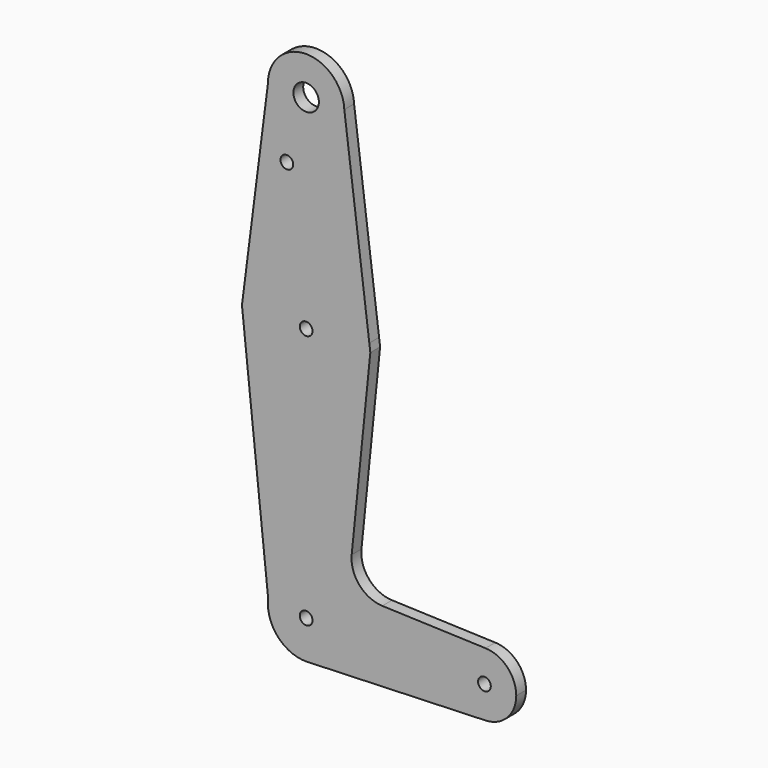
from build123d import *

# Parameters (mm, degrees)
F0_R     = 1.5875
F0_R_2   = 3.175
F1_DEPTH = 3.048


with BuildPart() as f1:
    # F0 (on Front) → F1 (new body)
    with BuildSketch(Plane.XZ):
        with BuildLine():
            ThreePointArc((9.516015, 51.213634), (9.522753, 51.006866), (9.525, 50.8))
            ThreePointArc((9.525, 50.8), (0.006912, 41.275003), (-9.52499, 50.786176))
            Line((-9.52499, 50.786176), (-15.747385, 2.008853))
            ThreePointArc((-15.747385, 2.008853), (0.007231, 15.874998), (15.749209, 1.994506))
            Line((15.749209, 1.994506), (9.516015, 51.213634))
        make_face()
        with Locations((-4.806304, 35.006166)):
            Circle(F0_R, mode=Mode.SUBTRACT)
        with BuildLine():
            ThreePointArc((-9.52499, 50.786176), (0.006912, 41.275003), (9.525, 50.8))
            ThreePointArc((9.525, 50.8), (9.522753, 51.006866), (9.516015, 51.213634))
            ThreePointArc((9.516015, 51.213634), (-0.213776, 60.322601), (-9.52499, 50.786176))
        make_face()
        with Locations((0, 50.8)):
            Circle(F0_R_2, mode=Mode.SUBTRACT)
        with BuildLine():
            ThreePointArc((15.875, 0), (15.843521, 0.999235), (15.749209, 1.994506))
            ThreePointArc((15.749209, 1.994506), (0.007231, 15.874998), (-15.747385, 2.008853))
            ThreePointArc((-15.747385, 2.008853), (-1.006451, -15.843064), (15.875, 0))
        make_face()
        Circle(F0_R, mode=Mode.SUBTRACT)
        with BuildLine():
            Line((16.001796, 0), (15.749209, 1.994506))
            ThreePointArc((15.749209, 1.994506), (15.843521, 0.999235), (15.875, 0))
            ThreePointArc((15.875, 0), (-1.006451, -15.843064), (-15.747385, 2.008853))
            Line((-15.747385, 2.008853), (-16.003649, 0))
            Line((-16.003649, 0), (-9.461613, -62.40296))
            ThreePointArc((-9.461613, -62.40296), (0.549435, -53.99086), (9.525, -63.5))
            ThreePointArc((9.525, -63.5), (6.970557, -69.991299), (0.677344, -73.000886))
            Line((0.677344, -73.000886), (44.732405, -71.432475))
            ThreePointArc((44.732405, -71.432475), (36.5125, -63.5), (44.732405, -55.567525))
            Line((44.732405, -55.567525), (18.981753, -54.650772))
            ThreePointArc((18.981753, -54.650772), (13.27275, -51.930861), (11.354835, -45.904898))
            Line((11.354835, -45.904898), (16.001796, 0))
        make_face()
        with BuildLine():
            ThreePointArc((9.525, -63.5), (0.549435, -53.99086), (-9.461613, -62.40296))
            ThreePointArc((-9.461613, -62.40296), (-7.112487, -69.835468), (0, -73.025))
            Line((0, -73.025), (0.677344, -73.000886))
            ThreePointArc((0.677344, -73.000886), (6.970557, -69.991299), (9.525, -63.5))
        make_face()
        with Locations((0, -63.5)):
            Circle(F0_R, mode=Mode.SUBTRACT)
        with BuildLine():
            ThreePointArc((52.3875, -63.5), (50.161633, -57.98809), (44.732405, -55.567525))
            ThreePointArc((44.732405, -55.567525), (36.5125, -63.5), (44.732405, -71.432475))
            ThreePointArc((44.732405, -71.432475), (50.161633, -69.01191), (52.3875, -63.5))
        make_face()
        with Locations((44.45, -63.5)):
            Circle(F0_R, mode=Mode.SUBTRACT)
    extrude(amount=F1_DEPTH)


solid = f1.part
